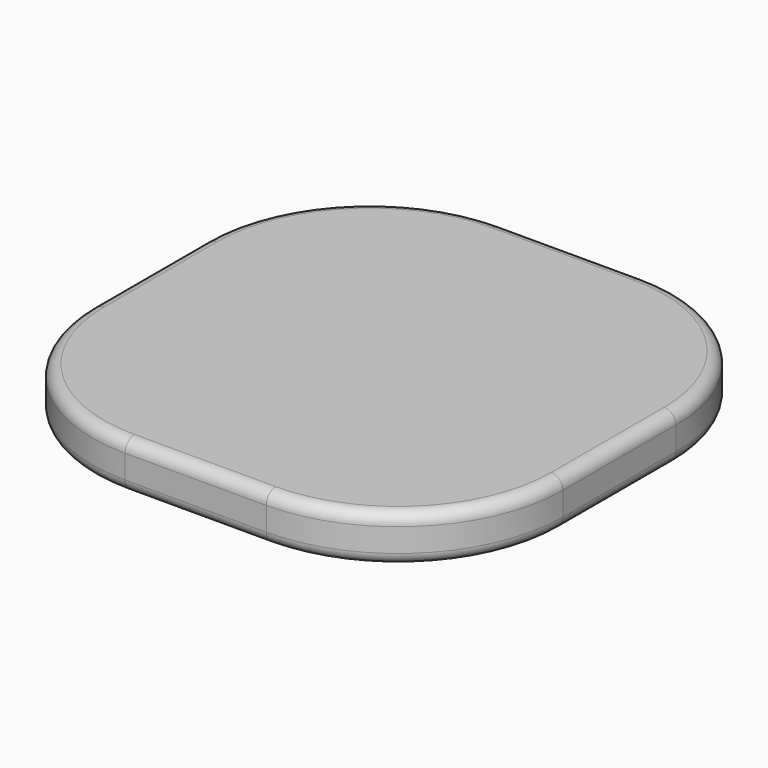
from build123d import *

# Parameters (mm, degrees)
F1_DEPTH = 25.4
F2_R     = 6.35
F3_R     = 1.5875
F4_DEPTH = 12.7


with BuildPart() as f1:
    # F0 (on Top) → F1 (new body)
    with BuildSketch(Plane.XY):
        with BuildLine():
            ThreePointArc((127, 38.1), (100.961793, 100.961793), (38.1, 127))
            Line((38.1, 127), (-38.1, 127))
            ThreePointArc((-38.1, 127), (-100.961793, 100.961793), (-127, 38.1))
            Line((-127, 38.1), (-127, -38.1))
            ThreePointArc((-127, -38.1), (-100.961793, -100.961793), (-38.1, -127))
            Line((-38.1, -127), (38.1, -127))
            ThreePointArc((38.1, -127), (100.961793, -100.961793), (127, -38.1))
            Line((127, -38.1), (127, 38.1))
        make_face()
    extrude(amount=F1_DEPTH)

    # F2
    f2_edges = [f1.edges().sort_by_distance(p)[0] for p in [
        (-100.961793, -100.961793, 25.4),
        (-100.961793, -100.961793, 0),
    ]]
    fillet(f2_edges, radius=F2_R)

    # F3 (on face) → F4 (cut)
    with BuildSketch(Plane(origin=(0, 0, 0), x_dir=(1, 0, 0), z_dir=(0, 0, -1))):
        with Locations((-114.3, 36.240128)):
            Circle(F3_R)
        with Locations((114.3, 36.240128)):
            Circle(F3_R)
        with Locations((114.3, -38.1)):
            Circle(F3_R)
        with Locations((-114.3, -38.1)):
            Circle(F3_R)
    extrude(amount=-F4_DEPTH, mode=Mode.SUBTRACT)


solid = f1.part
